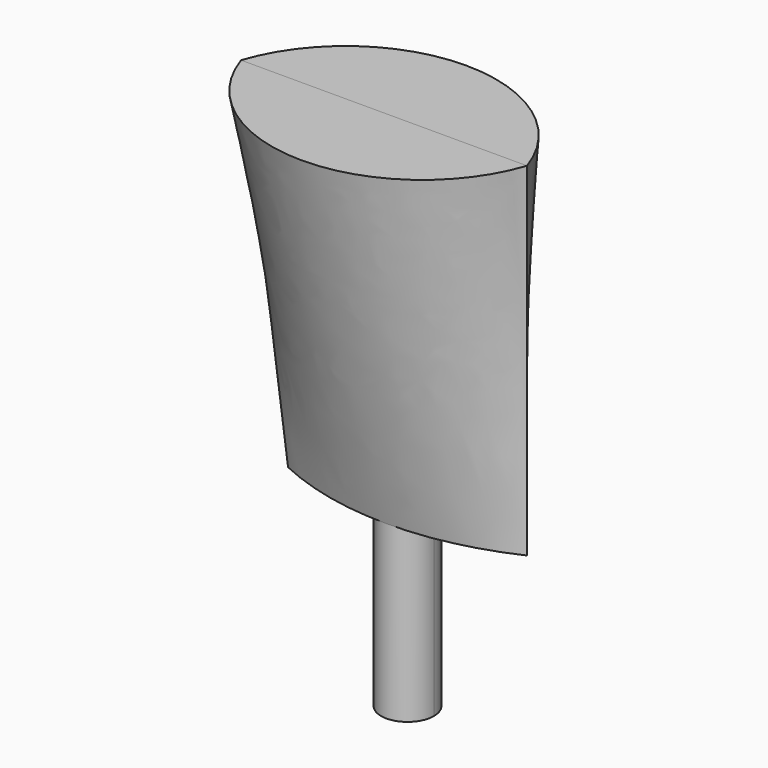
from build123d import *

# Parameters (mm, degrees)
F6_DEPTH = 38.1
F7_W     = 46.2397178635
F7_H     = 23.6593596637
F8_DEPTH = 26.035


with BuildPart() as f3:
    # F0 (on Top) → F3 section 0
    with BuildSketch(Plane.XY):
        with BuildLine():
            Line((-53.0577786267, 0), (0, 0))
            ThreePointArc((0, 0), (-26.5288893133, 5.8774279625), (-53.0577786267, 0))
        make_face()
    # F2 (on offset) → F3 section 1
    with BuildSketch(Plane.XY.offset(76.2)):
        with BuildLine():
            ThreePointArc((0, 0), (-31.75, 22.8209221644), (-63.5, 0))
            Line((-63.5, 0), (0, 0))
        make_face()
    loft()


with BuildPart() as f4_1:
    # F4: instance of F3
    add(f3.part.mirror(Plane.XZ))


with BuildPart() as f6:
    # F5 (on face) → F6 (new body)
    with BuildSketch(Plane(origin=(0, 0, 0), x_dir=(1, 0, 0), z_dir=(0, 0, -1))):
        with BuildLine():
            ThreePointArc((-26.5288893829, -5.8774279623), (-22.3729201699, -4.1559691926), (-20.6514613511, 0))
            Line((-20.6514613511, 0), (-32.4063172756, 0))
            ThreePointArc((-32.4063172756, 0), (-30.684858506, -4.1559691435), (-26.5288893829, -5.8774279623))
        make_face()
        with BuildLine():
            Line((-32.4063172756, 0), (-20.6514613511, 0))
            ThreePointArc((-20.6514613511, 0), (-26.5288893133, 5.8774279623), (-32.4063172756, 0))
        make_face()
    extrude(amount=F6_DEPTH)


with BuildPart() as f8:
    # F7 (on Front) → F8 (new body)
    with BuildSketch(Plane.XZ):
        with Locations((37.5585299917, 11.8296798319)):
            Rectangle(F7_W, F7_H)
    extrude(amount=F8_DEPTH)


solid = Compound([f3.part, f4_1.part, f6.part])
